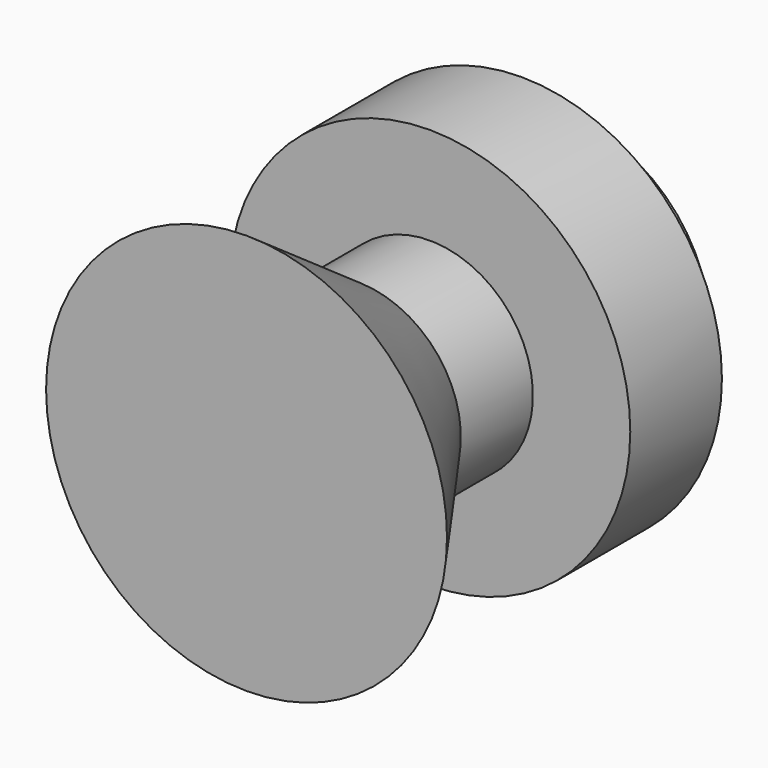
from build123d import *


with BuildPart() as f1:
    # F0 (on Top) → F1 (revolve)
    with BuildSketch(Plane.XY):
        Polygon((-20.372892, -21.339574), (14.627108, -21.339574), (14.627108, 48.660426), (-10.372892, 48.660426), (-10.372892, 38.660426), (-20.372892, 38.660426), (-20.372892, 18.660426), (-3.372892, 18.660426), (-3.372892, 2.938942), align=None)
    revolve(axis=Axis((14.627108, 13.660426, 0), (0, -1, 0)))


solid = f1.part
